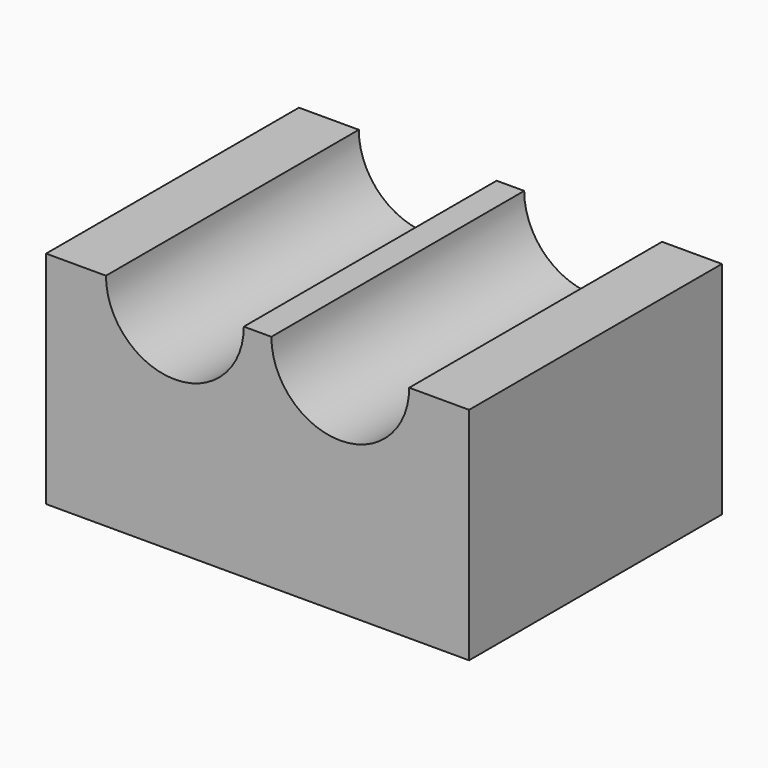
from build123d import *

# Parameters (mm, degrees)
F0_W     = 97.43362
F0_H     = 72.795242
F1_DEPTH = 50.8
F2_R     = 15.875
F3_DEPTH = 72.796242


with BuildPart() as f1:
    # F0 (on Top) → F1 (new body)
    with BuildSketch(Plane.XY):
        Rectangle(F0_W, F0_H)
    extrude(amount=F1_DEPTH)

    # F2 (on face) → F3 (cut, through all)
    with BuildSketch(Plane.XZ.offset(36.397621)):
        with Locations((-19.05, 50.8)):
            Circle(F2_R)
        with Locations((19.05, 50.8)):
            Circle(F2_R)
    extrude(amount=-F3_DEPTH, mode=Mode.SUBTRACT)


solid = f1.part
